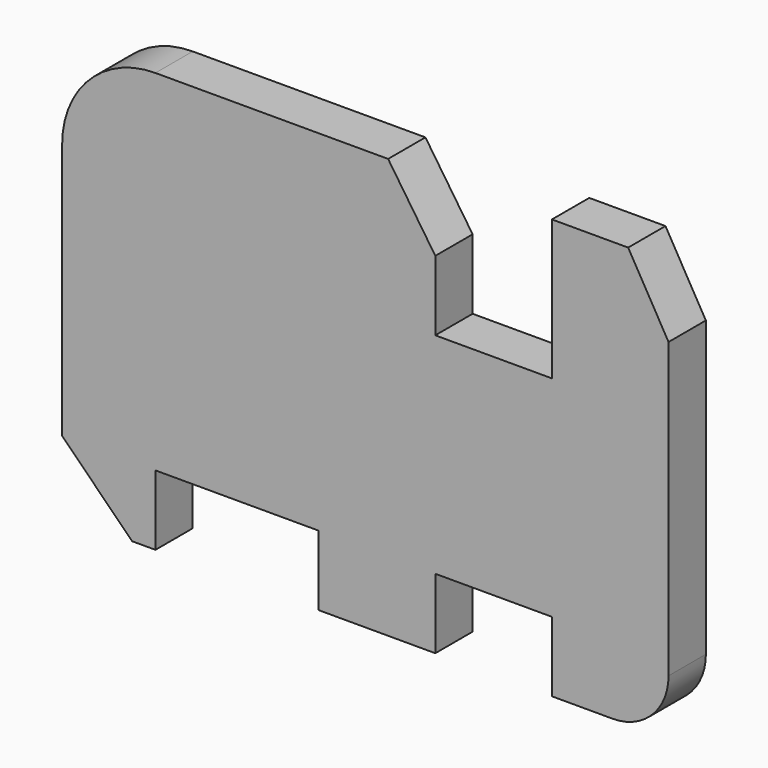
from build123d import *

# Parameters (mm, degrees)
F1_DEPTH = 10


with BuildPart() as f1:
    # F0 (on Front) → F1 (new body)
    with BuildSketch(Plane.XZ):
        with BuildLine():
            Line((69.882372, 90), (20, 90))
            ThreePointArc((20, 90), (5.857864, 84.142136), (0, 70))
            Line((0, 70), (0, 15))
            Line((0, 15), (15, 0))
            Line((15, 0), (20, 0))
            Line((20, 0), (20, 15))
            Line((20, 15), (55, 15))
            Line((55, 15), (55, 0))
            Line((55, 0), (80, 0))
            Line((80, 0), (80, 15))
            Line((80, 15), (105, 15))
            Line((105, 15), (105, 0))
            Line((105, 0), (118, 0))
            ThreePointArc((118, 0), (126.485281, 3.514719), (130, 12))
            Line((130, 12), (130, 75))
            Line((130, 75), (121.339746, 90))
            Line((121.339746, 90), (105, 90))
            Line((105, 90), (105, 60))
            Line((105, 60), (80, 60))
            Line((80, 60), (80, 75))
            Line((80, 75), (69.882372, 90))
        make_face()
    extrude(amount=F1_DEPTH)


solid = f1.part
